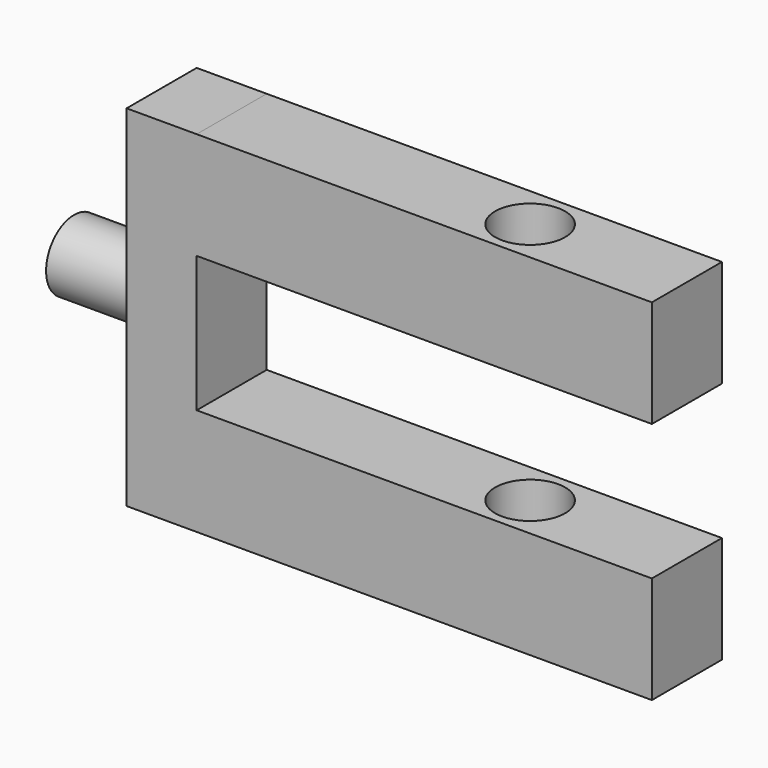
from build123d import *

# Parameters (mm, degrees)
F2_W     = 2
F2_H     = 3.0588235933
F2_H_2   = 3.8823528133
F3_DEPTH = 2.5
F5_D     = 2
F6_R     = 1
F7_DEPTH = 2.5


with BuildPart() as f3:
    # F2 (on Front) → F3 (new body)
    with BuildSketch(Plane.XZ):
        with Locations((-3.058823533, 3.4705882033)):
            Rectangle(F2_W, F2_H)
        Polygon((-0.058823533, 5), (-2.058823533, 5), (-2.058823533, 1.9411764067), (10.941176467, 1.9411764067), (10.941176467, 5), align=None)
        with Locations((-3.058823533, 0)):
            Rectangle(F2_W, F2_H_2)
        with Locations((-3.058823533, -3.4705882033)):
            Rectangle(F2_W, F2_H)
        Polygon((10.941176467, -1.9411764067), (-2.058823533, -1.9411764067), (-2.058823533, -5), (-0.058823533, -5), (10.941176467, -5), align=None)
    extrude(amount=F3_DEPTH)

    # F5 (through all)
    with Locations(Plane(origin=(0, 0, -5), x_dir=(1, 0, 0), z_dir=(0, 0, -1))):
        with Locations((6.4643374644, 1.25)):
            Hole(F5_D / 2)

    # F6 (on face) → F7 (join)
    with BuildSketch(Plane(origin=(-4.058823533, 0, 0), x_dir=(0, -1, 0), z_dir=(-1, 0, 0))):
        with Locations((1.25, 0)):
            Circle(F6_R)
    extrude(amount=F7_DEPTH)


solid = f3.part
